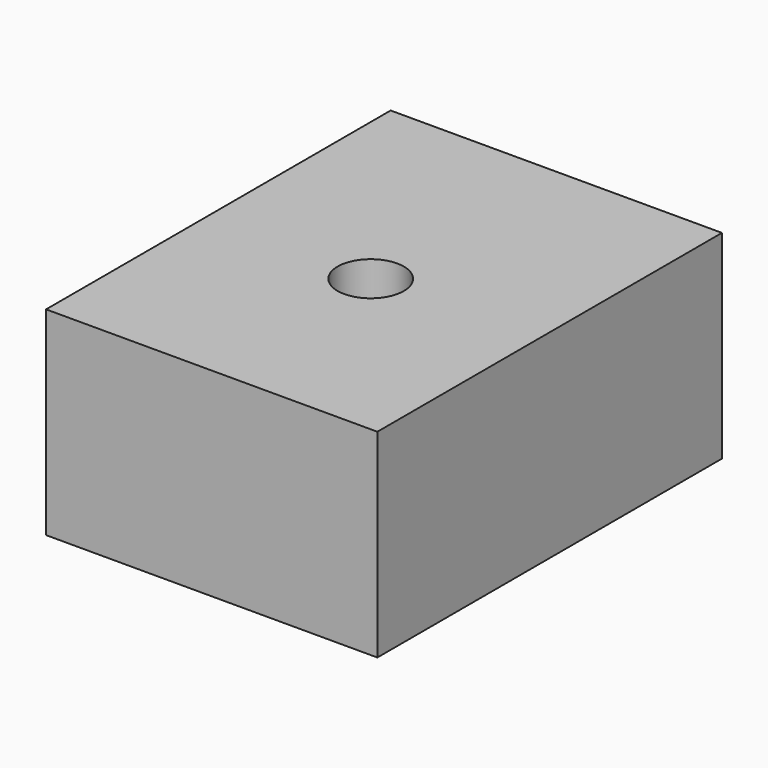
from build123d import *

# Parameters (mm, degrees)
F1_DEPTH = 19.05


with BuildPart() as f1:
    # F0 (on Top) → F1 (new body)
    with BuildSketch(Plane.XY):
        with BuildLine():
            ThreePointArc((3.175, -1.5875), (-2.245064, 0.657564), (0, -4.7625))
            ThreePointArc((0, -4.7625), (2.245064, -3.832564), (3.175, -1.5875))
        make_face()
        Polygon((15.875, -20.6375), (15.875, 20.6375), (-15.875, 20.6375), (-15.875, -20.6375), (0, -20.6375), align=None)
        with BuildLine():
            ThreePointArc((3.175, -1.5875), (2.245064, -3.832564), (0, -4.7625))
            ThreePointArc((0, -4.7625), (-2.245064, 0.657564), (3.175, -1.5875))
        make_face(mode=Mode.SUBTRACT)
    extrude(amount=F1_DEPTH)


solid = f1.part
